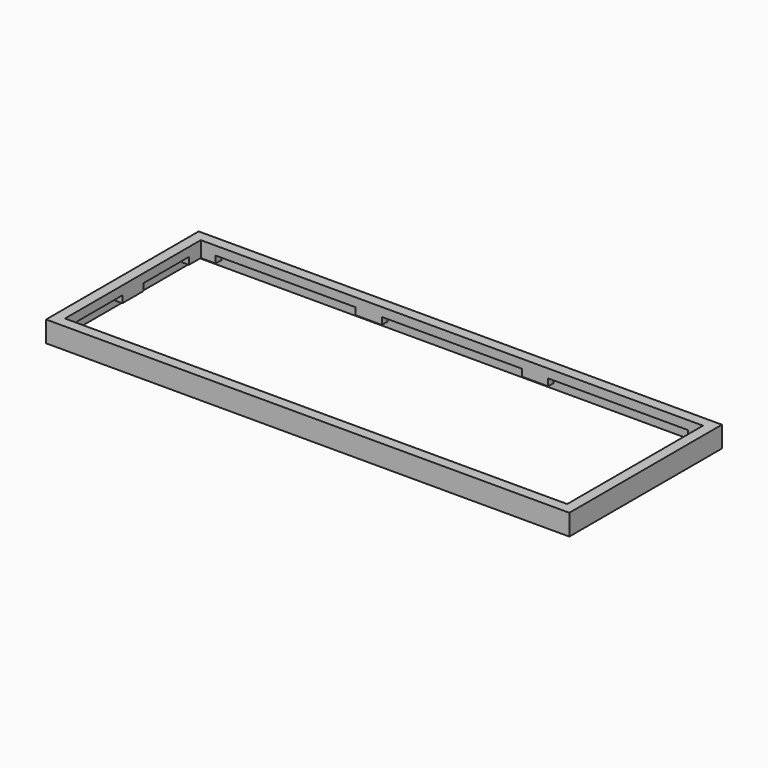
from build123d import *

# Parameters (mm, degrees)
SKETCH001_W     = 299
SKETCH001_H     = 109
SKETCH001_W_2   = 287
SKETCH001_H_2   = 97
PAD_DEPTH       = 12
SKETCH002_W     = 295
SKETCH002_H     = 105
POCKET_DEPTH    = 3
SKETCH003_W     = 80
SKETCH003_H     = 4
POCKET001_DEPTH = 4
SKETCH004_W     = 4
SKETCH004_H     = 32.5
POCKET002_DEPTH = 4


with BuildPart() as part:
    # Sketch001 → Pad (new body)
    with BuildSketch(Plane.XY):
        Rectangle(SKETCH001_W, SKETCH001_H)
        Rectangle(SKETCH001_W_2, SKETCH001_H_2, mode=Mode.SUBTRACT)
    extrude(amount=PAD_DEPTH)

    # Sketch002 (on Face9 of Pad) → Pocket (cut)
    with BuildSketch(Plane(origin=(0, 0, 0), x_dir=(1, 0, 0), z_dir=(0, 0, -1))):
        Rectangle(SKETCH002_W, SKETCH002_H)
    extrude(amount=-POCKET_DEPTH, mode=Mode.SUBTRACT)

    # Sketch003 (on Face15 of Pocket) → Pocket001 (cut)
    with BuildSketch(Plane(origin=(0, 0, 3), x_dir=(1, 0, 0), z_dir=(0, 0, -1))):
        with Locations((-95, 50.5)):
            Rectangle(SKETCH003_W, SKETCH003_H)
        with Locations((0, 50.5)):
            Rectangle(SKETCH003_W, SKETCH003_H)
        with Locations((95, 50.5)):
            Rectangle(SKETCH003_W, SKETCH003_H)
        with Locations((-95, -50.5)):
            Rectangle(SKETCH003_W, SKETCH003_H)
        with Locations((0, -50.5)):
            Rectangle(SKETCH003_W, SKETCH003_H)
        with Locations((95, -50.5)):
            Rectangle(SKETCH003_W, SKETCH003_H)
    extrude(amount=-POCKET001_DEPTH, mode=Mode.SUBTRACT)

    # Sketch004 (on Face15 of Pocket001) → Pocket002 (cut)
    with BuildSketch(Plane(origin=(0, 0, 3), x_dir=(1, 0, 0), z_dir=(0, 0, -1))):
        with Locations((145.5, 23.75)):
            Rectangle(SKETCH004_W, SKETCH004_H)
        with Locations((145.5, -23.75)):
            Rectangle(SKETCH004_W, SKETCH004_H)
        with Locations((-145.5, 23.75)):
            Rectangle(SKETCH004_W, SKETCH004_H)
        with Locations((-145.5, -23.75)):
            Rectangle(SKETCH004_W, SKETCH004_H)
    extrude(amount=-POCKET002_DEPTH, mode=Mode.SUBTRACT)


solid = part.part
